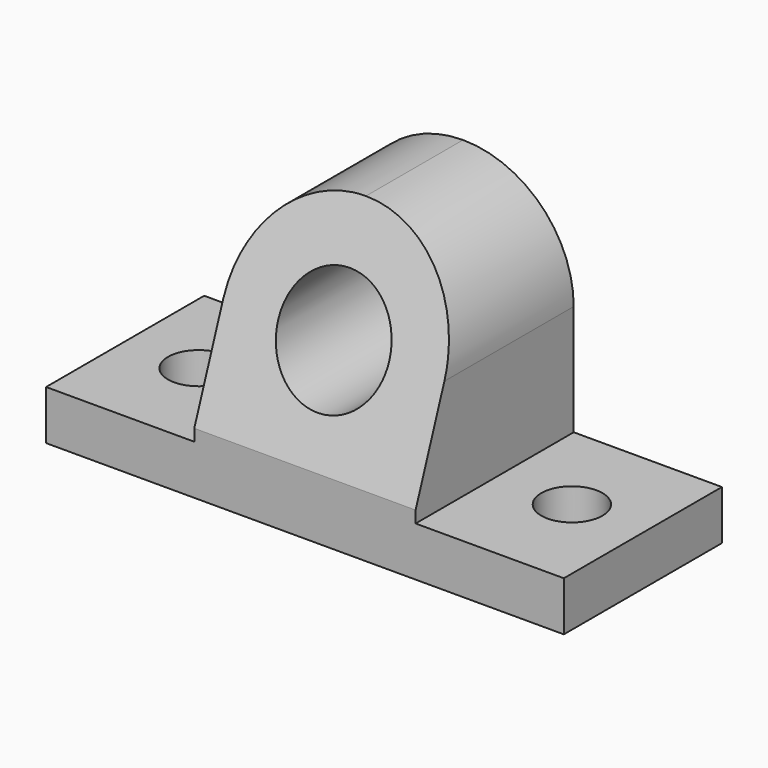
from build123d import *

# Parameters (mm, degrees)
F0_W     = 50.8
F0_H     = 15.748
F1_DEPTH = 133.096
F2_R     = 14.2875
F3_DEPTH = 50.8
F4_R     = 7.874
F5_DEPTH = 12.7


with BuildPart() as f1:
    # F0 (on Right) → F1 (new body)
    with BuildSketch(Plane.YZ):
        Polygon((24.598954, 14.818944), (-6.601977, 14.818944), (-26.201046, -39.029056), (24.598954, -39.029056), align=None)
        with Locations((-0.801046, -46.903056)):
            Rectangle(F0_W, F0_H)
    extrude(amount=F1_DEPTH)

    # F2 (on face) → F3 (cut)
    with BuildSketch(Plane(origin=(0, 24.598954, 0), x_dir=(-1, 0, 0), z_dir=(0, 1, 0))):
        with BuildLine():
            Line((-133.096, 14.818944), (-133.096, -42.077056))
            Line((-133.096, -42.077056), (-94.996, -42.077056))
            Line((-94.996, -42.077056), (-94.996, -13.629056))
            ThreePointArc((-94.996, -13.629056), (-86.663774, 6.486718), (-66.548, 14.818944))
            Line((-66.548, 14.818944), (-133.096, 14.818944))
        make_face()
        with BuildLine():
            Line((-38.1, -42.077056), (0, -42.077056))
            Line((0, -42.077056), (0, 14.818944))
            Line((0, 14.818944), (-66.548, 14.818944))
            ThreePointArc((-66.548, 14.818944), (-46.432226, 6.486718), (-38.1, -13.629056))
            Line((-38.1, -13.629056), (-38.1, -42.077056))
        make_face()
        with Locations((-66.548, -13.629056)):
            Circle(F2_R)
    extrude(amount=-F3_DEPTH, mode=Mode.SUBTRACT)

    # F4 (on face) → F5 (cut)
    with BuildSketch(Plane(origin=(0, 0, -54.777056), x_dir=(1, 0, 0), z_dir=(0, 0, -1))):
        with Locations((18.796865, 0.687916)):
            Circle(F4_R)
        with Locations((114.299135, 0.11313)):
            Circle(F4_R)
    extrude(amount=-F5_DEPTH, mode=Mode.SUBTRACT)


solid = f1.part
